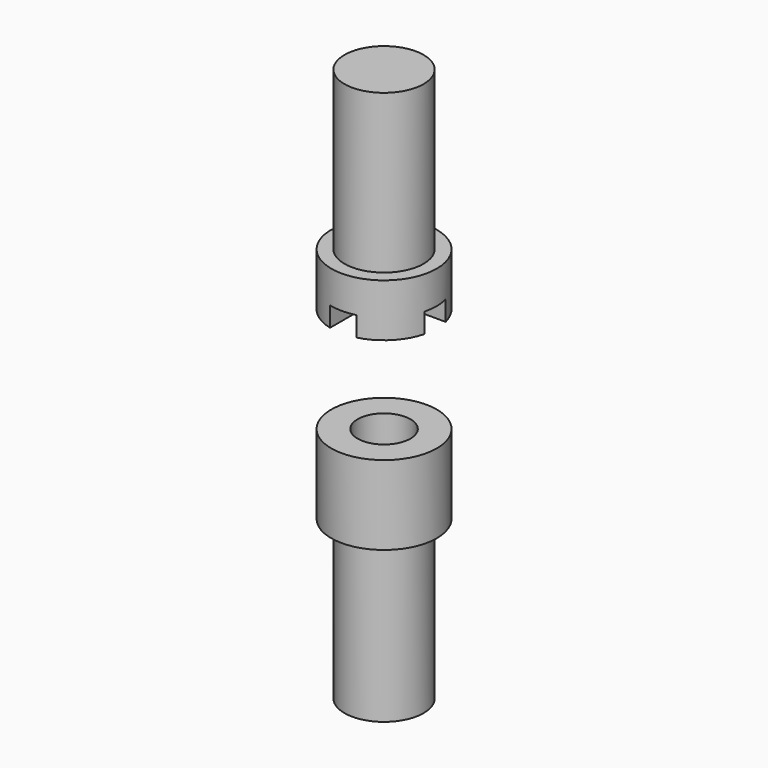
from build123d import *

# Parameters (mm, degrees)
F4_W          = 6.35
F4_H          = 4.7752
F5_DEPTH      = 12.701
F5_DEPTH_BACK = 12.701
F6_W          = 6.35
F6_H          = 4.7752
F7_DEPTH      = 12.701
F7_DEPTH_BACK = 12.701


with BuildPart() as f1:
    # F0 (on Front) → F1 (revolve)
    with BuildSketch(Plane.XZ):
        Polygon((12.7, 0), (6.35, 0), (6.35, -12.1865350692), (0, -16.002), (0, -57.15), (9.525, -57.15), (9.525, -19.05), (12.7, -19.05), align=None)
    revolve(axis=Axis((0, 0, 23.685501908), (0, 0, -1)))


with BuildPart() as f3:
    # F2 (on Front) → F3 (revolve)
    with BuildSketch(Plane.XZ):
        Polygon((0, 76.2), (0, 30.1752), (6.35, 30.1752), (6.35, 25.4), (12.7, 25.4), (12.7, 38.1), (9.525, 38.1), (9.525, 76.2), align=None)
    revolve(axis=Axis((0, 0, 23.4449315517), (0, 0, 1)))

    # F4 (on Right) → F5 (cut, two sides)
    with BuildSketch(Plane.YZ) as f5_sk:
        with Locations((0, 27.7876)):
            Rectangle(F4_W, F4_H)
    extrude(amount=-F5_DEPTH, mode=Mode.SUBTRACT)
    extrude(f5_sk.sketch, amount=F5_DEPTH_BACK, mode=Mode.SUBTRACT)

    # F6 (on Front) → F7 (cut, two sides)
    with BuildSketch(Plane.XZ) as f7_sk:
        with Locations((0, 27.7876)):
            Rectangle(F6_W, F6_H)
    extrude(amount=F7_DEPTH, mode=Mode.SUBTRACT)
    extrude(f7_sk.sketch, amount=-F7_DEPTH_BACK, mode=Mode.SUBTRACT)


solid = Compound([f1.part, f3.part])
